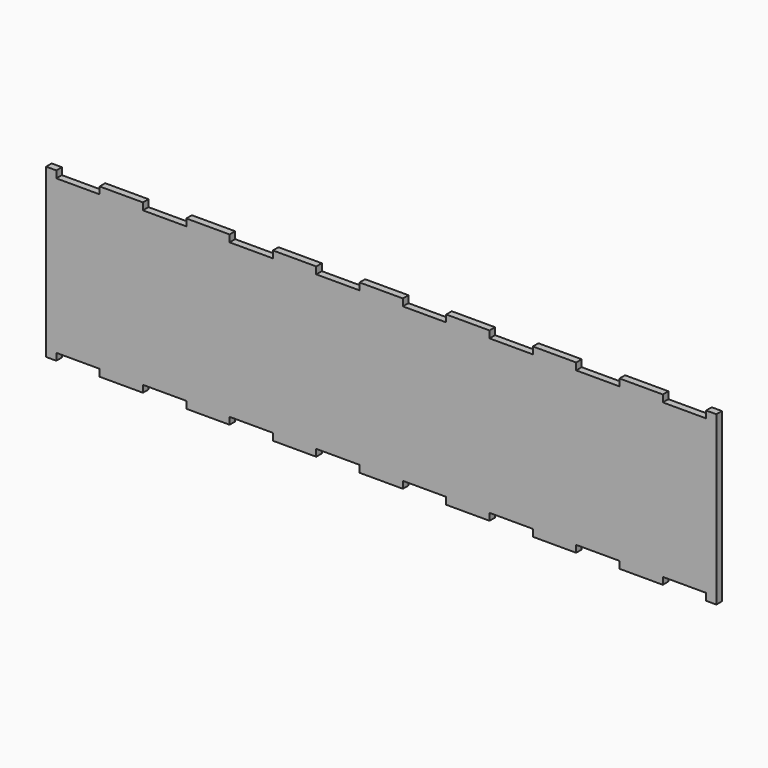
from build123d import *

# Parameters (mm, degrees)
F1_DEPTH = 3.175


with BuildPart() as f1:
    # F0 (on Front) → F1 (new body)
    with BuildSketch(Plane.XZ):
        Polygon((-147.759614, 38.1), (-152.4, 38.1), (-152.4, -38.1), (-147.759614, -38.1), (-147.759614, -34.925), (-128.058332, -34.925), (-128.058332, -38.1), (-108.35705, -38.1), (-108.35705, -34.925), (-88.655768, -34.925), (-88.655768, -38.1), (-68.954485, -38.1), (-68.954485, -34.925), (-49.253203, -34.925), (-49.253203, -38.1), (-29.551921, -38.1), (-29.551921, -34.925), (-9.850639, -34.925), (-9.850639, -38.1), (9.850643, -38.1), (9.850643, -34.925), (29.551925, -34.925), (29.551925, -38.1), (49.253208, -38.1), (49.253208, -34.925), (68.95449, -34.925), (68.95449, -38.1), (88.655772, -38.1), (88.655772, -34.925), (108.357054, -34.925), (108.357054, -38.1), (128.058336, -38.1), (128.058336, -34.925), (147.759618, -34.925), (147.759618, -38.1), (152.4, -38.1), (152.4, 38.1), (147.759618, 38.1), (147.759618, 34.925), (128.058336, 34.925), (128.058336, 38.1), (108.357054, 38.1), (108.357054, 34.925), (88.655772, 34.925), (88.655772, 38.1), (68.95449, 38.1), (68.95449, 34.925), (49.253208, 34.925), (49.253208, 38.1), (29.551925, 38.1), (29.551925, 34.925), (9.850643, 34.925), (9.850643, 38.1), (-9.850639, 38.1), (-9.850639, 34.925), (-29.551921, 34.925), (-29.551921, 38.1), (-49.253203, 38.1), (-49.253203, 34.925), (-68.954485, 34.925), (-68.954485, 38.1), (-88.655768, 38.1), (-88.655768, 34.925), (-108.35705, 34.925), (-108.35705, 38.1), (-128.058332, 38.1), (-128.058332, 34.925), (-147.759614, 34.925), align=None)
    extrude(amount=F1_DEPTH)


solid = f1.part
